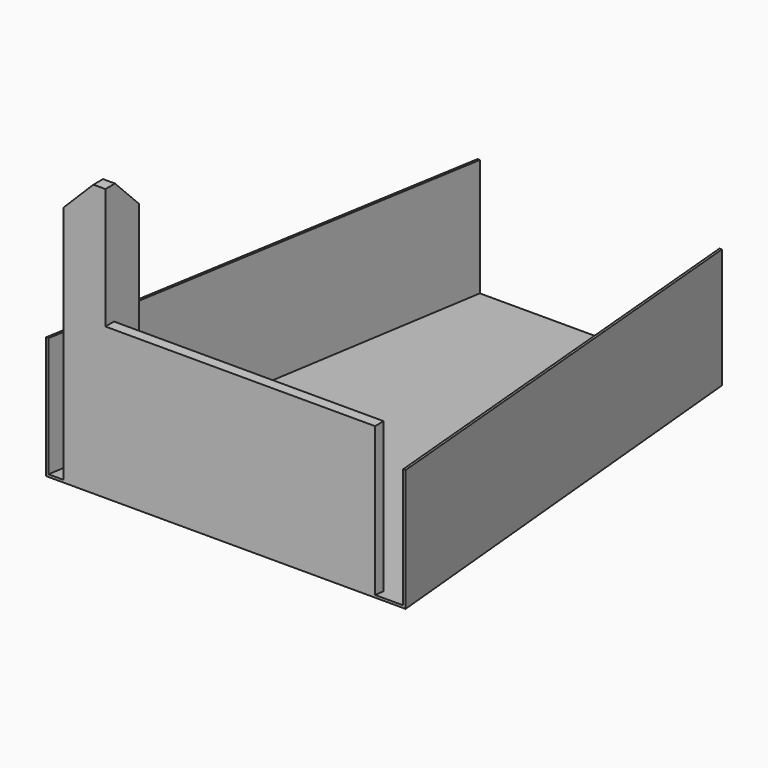
from build123d import *

# Parameters (mm, degrees)
F5_W      = 8.89
F5_H      = 8.89
F6_DEPTH  = 57.15
F6_FACE_W = 8.89
F6_FACE_H = 8.89
F7_DEPTH  = 0.254
F9_DEPTH  = 57.15
F10_SIZE  = 6.35
F11_SIZE  = 6.35


with BuildPart() as f3:
    # F2 (on offset) → F3 section 0
    with BuildSketch(Plane.XZ.offset(114.3)):
        Polygon((0.508, 13.208), (0, 13.208), (0, -12.192), (0, -12.7), (76.2, -12.7), (76.2, -12.192), (76.2, 13.208), (75.692, 13.208), (75.692, -12.192), (0.508, -12.192), align=None)
    # F0 (on Front) → F3 section 1
    with BuildSketch(Plane.XZ):
        Polygon((0.508, 0), (0, 0), (0, -24.892), (0, -25.4), (51.816, -25.4), (51.816, -24.892), (51.816, 0), (51.308, 0), (51.308, -24.892), (0.508, -24.892), align=None)
    loft()

    # F5 (on face) → F6 (join)
    with BuildSketch(Plane.XY.offset(-12.192)):
        with Locations((8.128, -109.855)):
            Rectangle(F5_W, F5_H)
    extrude(amount=F6_DEPTH)

    # F6_face (on face) → F7 (join)
    with BuildSketch(Plane(origin=(8.128, -109.855, -12.192), x_dir=(1, 0, 0), z_dir=(0, 0, -1))):
        Rectangle(F6_FACE_W, F6_FACE_H)
    extrude(amount=F7_DEPTH)

    # F8 (on face) → F9 (join)
    with BuildSketch(Plane.YZ.offset(12.573)):
        with BuildLine():
            Line((-112.014, 19.304), (-114.3, 19.304))
            Line((-114.3, 19.304), (-114.3, -12.192))
            add(Edge.make_bspline(
                [(-114.3, -12.192), (-113.728496, -12.2555), (-113.156994, -12.319001), (-112.585496, -12.3825), (-112.014, -12.446)],
                knots=[0, 0, 0, 0, 0, 1, 1, 1, 1, 1], degree=4))
            Line((-112.014, -12.446), (-112.014, 19.304))
        make_face()
    extrude(amount=F9_DEPTH)

    # F10
    f10_edges = [f3.edges().sort_by_distance(p)[0] for p in [
        (3.683, -109.855, 44.958),
    ]]
    chamfer(f10_edges, length=F10_SIZE)

    # F11
    f11_edges = [f3.edges().sort_by_distance(p)[0] for p in [
        (11.303, -105.41, 44.958),
    ]]
    chamfer(f11_edges, length=F11_SIZE)


solid = f3.part
